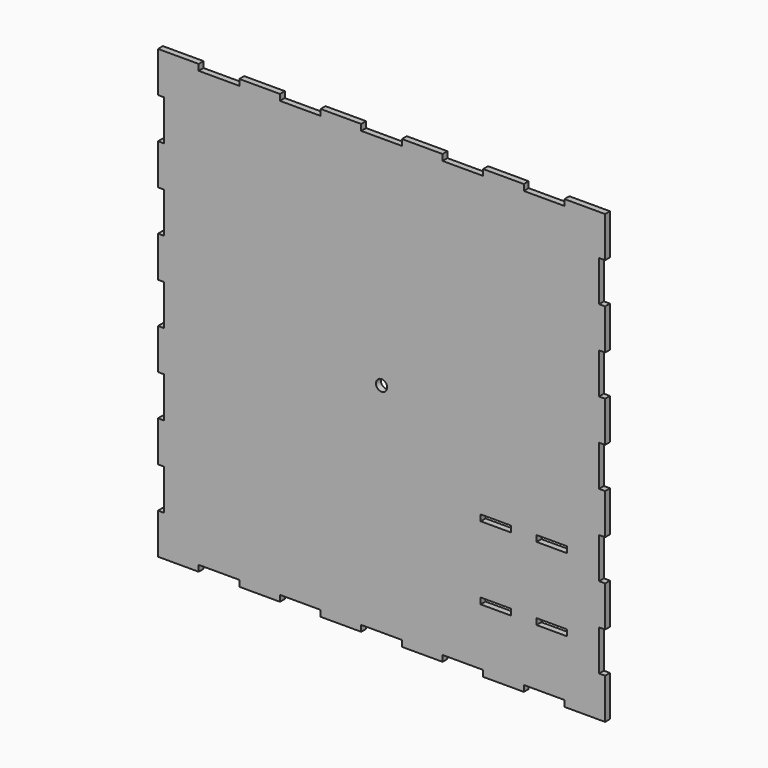
from build123d import *

# Parameters (mm, degrees)
F0_W     = 15
F0_H     = 3
F0_R     = 2.75
F1_DEPTH = 3


with BuildPart() as f1:
    # F0 (on Front) → F1 (new body)
    with BuildSketch(Plane.XZ):
        Polygon((-90, 110), (-110, 110), (-110, 90), (-107, 90), (-107, 70), (-110, 70), (-110, 50), (-107, 50), (-107, 30), (-110, 30), (-110, 10), (-107, 10), (-107, -10), (-110, -10), (-110, -30), (-107, -30), (-107, -50), (-110, -50), (-110, -70), (-107, -70), (-107, -90), (-110, -90), (-110, -110), (-90, -110), (-90, -107), (-70, -107), (-70, -110), (-50, -110), (-50, -107), (-30, -107), (-30, -110), (-10, -110), (-10, -107), (10, -107), (10, -110), (30, -110), (30, -107), (50, -107), (50, -110), (70, -110), (70, -107), (90, -107), (90, -110), (110, -110), (110, -90), (107, -90), (107, -70), (110, -70), (110, -50), (107, -50), (107, -30), (110, -30), (110, -10), (107, -10), (107, 10), (110, 10), (110, 30), (107, 30), (107, 50), (110, 50), (110, 70), (107, 70), (107, 90), (110, 90), (110, 110), (90, 110), (90, 107), (70, 107), (70, 110), (50, 110), (50, 107), (30, 107), (30, 110), (10, 110), (10, 107), (-10, 107), (-10, 110), (-30, 110), (-30, 107), (-50, 107), (-50, 110), (-70, 110), (-70, 107), (-90, 107), align=None)
        with Locations((56.25, -77.5)):
            Rectangle(F0_W, F0_H, mode=Mode.SUBTRACT)
        with Locations((83.75, -77.5)):
            Rectangle(F0_W, F0_H, mode=Mode.SUBTRACT)
        with Locations((56.25, -41.5)):
            Rectangle(F0_W, F0_H, mode=Mode.SUBTRACT)
        with Locations((83.75, -41.5)):
            Rectangle(F0_W, F0_H, mode=Mode.SUBTRACT)
        Circle(F0_R, mode=Mode.SUBTRACT)
    extrude(amount=F1_DEPTH)


solid = f1.part
